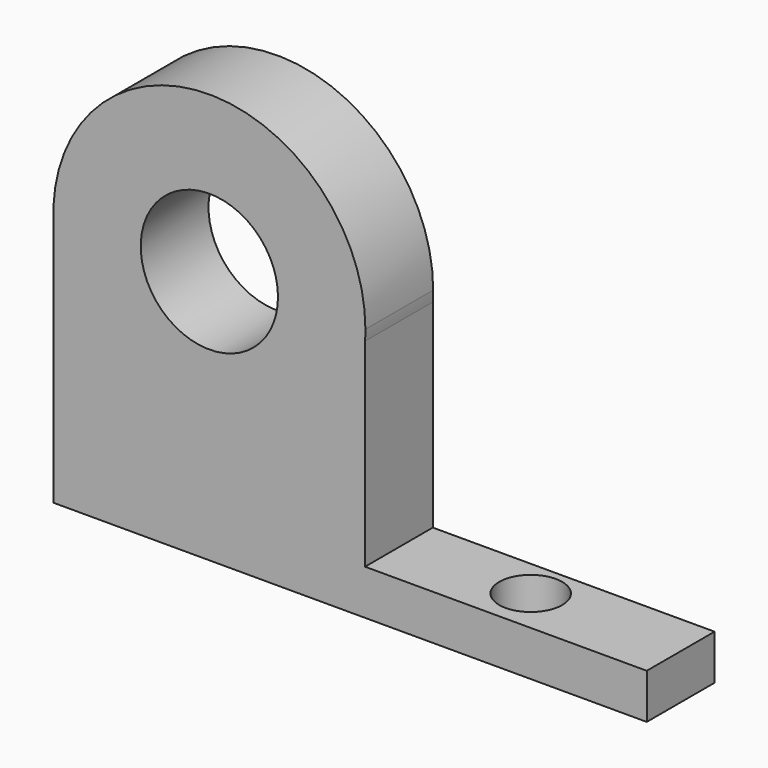
from build123d import *

# Parameters (mm, degrees)
F0_W     = 84.456712
F0_H     = 13.497178
F1_DEPTH = 25.4
F2_R     = 9.965613
F3_DEPTH = 25.4
F4_R     = 9.424237
F5_DEPTH = 25.4


with BuildPart() as f1:
    # F0 (on Front) → F1 (new body)
    with BuildSketch(Plane.XZ):
        with BuildLine():
            ThreePointArc((0.107788, 76.2), (-48.259449, 122.952477), (-93.343288, 73.026219))
            Line((-93.343288, 73.026219), (-93.343288, 76.2))
            Line((-93.343288, 76.2), (-67.245644, 76.2))
            ThreePointArc((-67.245644, 76.2), (-46.671644, 96.774), (-26.097644, 76.2))
            Line((-26.097644, 76.2), (0, 76.2))
            Line((0, 76.2), (0, 73.026219))
            ThreePointArc((0, 73.026219), (0.080833, 74.612195), (0.107788, 76.2))
        make_face()
        with BuildLine():
            Line((-93.343288, 76.2), (-93.343288, 73.026219))
            ThreePointArc((-93.343288, 73.026219), (-46.671644, 29.420568), (0, 73.026219))
            Line((0, 73.026219), (0, 76.2))
            Line((0, 76.2), (-26.097644, 76.2))
            ThreePointArc((-26.097644, 76.2), (-46.671644, 55.626), (-67.245644, 76.2))
            Line((-67.245644, 76.2), (-93.343288, 76.2))
        make_face()
        with BuildLine():
            Line((-93.343288, 73.026219), (-93.343288, 0))
            Line((-93.343288, 0), (0, 0))
            Line((0, 0), (0, 13.497178))
            Line((0, 13.497178), (0, 73.026219))
            ThreePointArc((0, 73.026219), (-46.671644, 29.420568), (-93.343288, 73.026219))
        make_face()
        with Locations((42.228356, 6.748589)):
            Rectangle(F0_W, F0_H)
    extrude(amount=F1_DEPTH)

    # F2 (on Top) → F3 (cut)
    with BuildSketch(Plane.XY):
        with Locations((45.747578, -12.0396)):
            Circle(F2_R)
    extrude(amount=-F3_DEPTH, mode=Mode.SUBTRACT)

    # F4 (on face) → F5 (cut)
    with BuildSketch(Plane.XY.offset(13.497178)):
        with Locations((38.751498, -11.754938)):
            Circle(F4_R)
    extrude(amount=-F5_DEPTH, mode=Mode.SUBTRACT)


solid = f1.part
